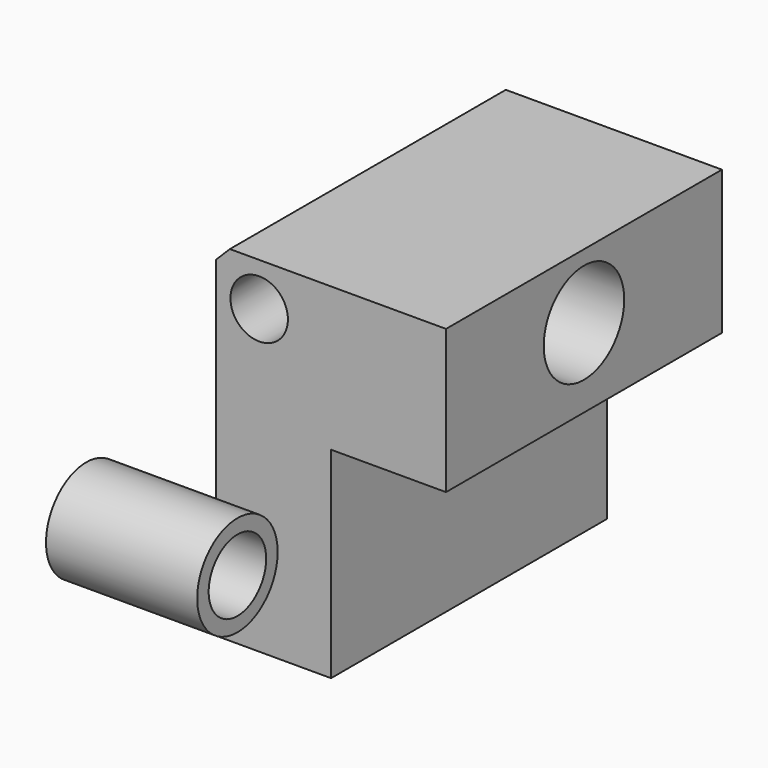
from build123d import *

# Parameters (mm, degrees)
F0_R      = 6.35
F1_DEPTH  = 76.2
F2_R      = 11.1125
F3_DEPTH  = 50.801
F4_R      = 6.35
F5_DEPTH  = 25.4
F6_R      = 6.35
F7_DEPTH  = 25.4
F8_R      = 3.175
F9_DEPTH  = 25.4
F10_SIZE  = 3.048
F12_R     = 3.175
F13_DEPTH = 25.4
F14_R     = 11.1125
F14_R_2   = 7.9375
F15_DEPTH = 33.401


with BuildPart() as f1:
    # F0 (on Front) → F1 (new body)
    with BuildSketch(Plane.XZ):
        Polygon((-25.4, -50.8), (0, -50.8), (0, -6.35), (25.4, -6.35), (25.4, 25.4), (-25.4, 25.4), align=None)
        with Locations((-15.875, 15.875)):
            Circle(F0_R, mode=Mode.SUBTRACT)
        with Locations((-15.875, 15.875)):
            Circle(F0_R)
    extrude(amount=F1_DEPTH)

    # F2 (on face) → F3 (cut, through all)
    with BuildSketch(Plane.YZ.offset(25.4)):
        with Locations((-38.1, 11.1125)):
            Circle(F2_R)
    extrude(amount=-F3_DEPTH, mode=Mode.SUBTRACT)

    # F4 (on face) → F5 (cut)
    with BuildSketch(Plane.XZ.offset(76.2)):
        with Locations((-15.875, 15.875)):
            Circle(F4_R)
    extrude(amount=-F5_DEPTH, mode=Mode.SUBTRACT)

    # F6 (on face) → F7 (cut)
    with BuildSketch(Plane(origin=(0, 0, 0), x_dir=(-1, 0, 0), z_dir=(0, 1, 0))):
        with Locations((15.875, 15.875)):
            Circle(F6_R)
    extrude(amount=-F7_DEPTH, mode=Mode.SUBTRACT)

    # F8 (on face) → F9 (cut)
    with BuildSketch(Plane(origin=(0, 0, -50.8), x_dir=(1, 0, 0), z_dir=(0, 0, -1))):
        with Locations((-12.7, 63.5)):
            Circle(F8_R)
        with Locations((-12.7, 12.7)):
            Circle(F8_R)
    extrude(amount=-F9_DEPTH, mode=Mode.SUBTRACT)

    # F10
    f10_edges = [f1.edges().sort_by_distance(p)[0] for p in [
        (-25.4, -38.1, 25.4),
    ]]
    chamfer(f10_edges, length=F10_SIZE)

    # F12 (on face) → F13 (cut, symmetric)
    with BuildSketch(Plane(origin=(2.983524071, 0, -4.2609139551), x_dir=(0.8191520443, 0, 0.5735764364), z_dir=(0.5735764364, 0, -0.8191520443))):
        with Locations((-3.6422103708, 63.5)):
            Circle(F12_R)
        with Locations((-3.6422103708, 12.7)):
            Circle(F12_R)
    extrude(amount=F13_DEPTH, both=True, mode=Mode.SUBTRACT)


with BuildPart() as f15:
    # F14 (on Right) → F15 (new body)
    with BuildSketch(Plane.YZ):
        with Locations((-143.8064575195, 7.5744176283)):
            Circle(F14_R)
        with Locations((-143.8064575195, 7.5744176283)):
            Circle(F14_R_2, mode=Mode.SUBTRACT)
    extrude(amount=F15_DEPTH)


solid = Compound([f1.part, f15.part])
